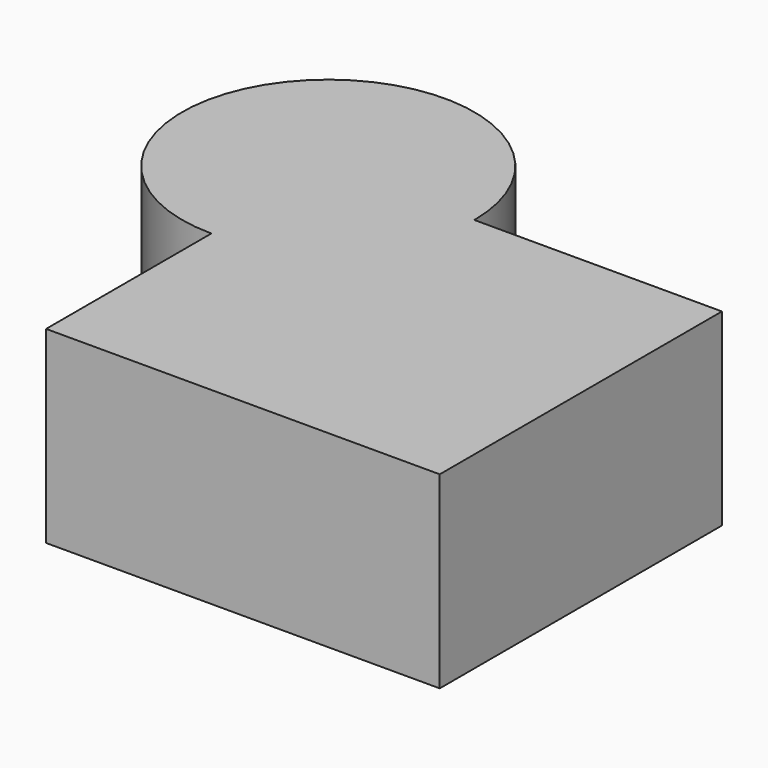
from build123d import *

# Parameters (mm, degrees)
F1_DEPTH = 25.4


with BuildPart() as f1:
    # F0 (on Top) → F1 (new body)
    with BuildSketch(Plane.XY):
        with BuildLine():
            Line((0, -19.6916791789), (0, 0))
            Line((0, 0), (19.6916791789, 0))
            ThreePointArc((19.6916791789, 0), (-13.9241198804, 13.9241198804), (0, -19.6916791789))
        make_face()
        with BuildLine():
            Line((19.6916791789, 0), (0, 0))
            Line((0, 0), (0, -19.6916791789))
            ThreePointArc((0, -19.6916791789), (13.9241198804, -13.9241198804), (19.6916791789, 0))
        make_face()
        with BuildLine():
            Line((53.0525743961, 0), (19.6916791789, 0))
            ThreePointArc((19.6916791789, 0), (13.9241198804, -13.9241198804), (0, -19.6916791789))
            Line((0, -19.6916791789), (0, -47.5333593786))
            Line((0, -47.5333593786), (53.0525743961, -47.5333593786))
            Line((53.0525743961, -47.5333593786), (53.0525743961, 0))
        make_face()
    extrude(amount=F1_DEPTH)


solid = f1.part
